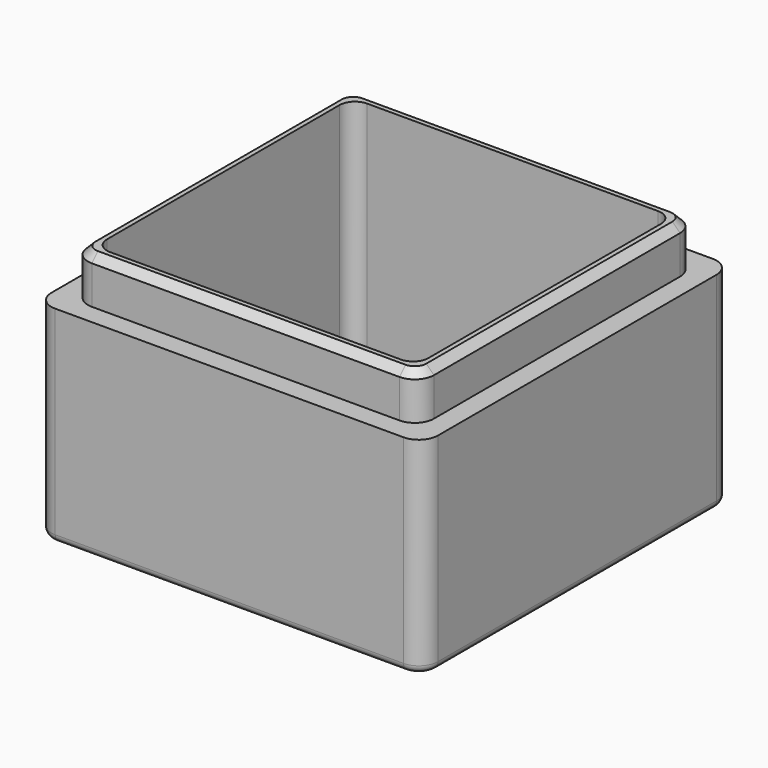
from build123d import *

# Parameters (mm, degrees)
F0_W          = 50.5
F0_H          = 50.5
F1_DEPTH      = 27
F2_W          = 45.2
F2_H          = 45.2
F3_DEPTH      = 6
F4_W          = 42
F4_H          = 42
F5_DEPTH      = 6
F5_DEPTH_BACK = 23
F6_R          = 2.5
F7_R          = 2
F8_SIZE       = 1
F9_R          = 1


with BuildPart() as f1:
    # F0 (on Top) → F1 (new body)
    with BuildSketch(Plane.XY):
        Rectangle(F0_W, F0_H)
    extrude(amount=F1_DEPTH)

    # F2 (on face) → F3 (join)
    with BuildSketch(Plane.XY.offset(27)):
        Rectangle(F2_W, F2_H)
    extrude(amount=F3_DEPTH)

    # F4 (on face) → F5 (cut, two sides)
    with BuildSketch(Plane.XY.offset(27)) as f5_sk:
        Rectangle(F4_W, F4_H)
    extrude(amount=F5_DEPTH, mode=Mode.SUBTRACT)
    extrude(f5_sk.sketch, amount=-F5_DEPTH_BACK, mode=Mode.SUBTRACT)

    # F6
    f6_edges = [f1.edges().sort_by_distance(p)[0] for p in [
        (-25.25, 25.25, 13.5),
        (-25.25, -25.25, 13.5),
        (25.25, -25.25, 13.5),
        (25.25, 25.25, 13.5),
        (-22.6, 22.6, 30),
        (-22.6, -22.6, 30),
        (22.6, -22.6, 30),
        (22.6, 22.6, 30),
    ]]
    fillet(f6_edges, radius=F6_R)

    # F7
    f7_edges = [f1.edges().sort_by_distance(p)[0] for p in [
        (-21, 21, 18.5),
        (21, 21, 18.5),
        (21, -21, 18.5),
        (-21, -21, 18.5),
    ]]
    fillet(f7_edges, radius=F7_R)

    # F8
    f8_edges = [f1.edges().sort_by_distance(p)[0] for p in [
        (-22.6, 0, 33),
    ]]
    chamfer(f8_edges, length=F8_SIZE)

    # F9
    f9_edges = [f1.edges().sort_by_distance(p)[0] for p in [
        (0, 25.25, 0),
    ]]
    fillet(f9_edges, radius=F9_R)


solid = f1.part
